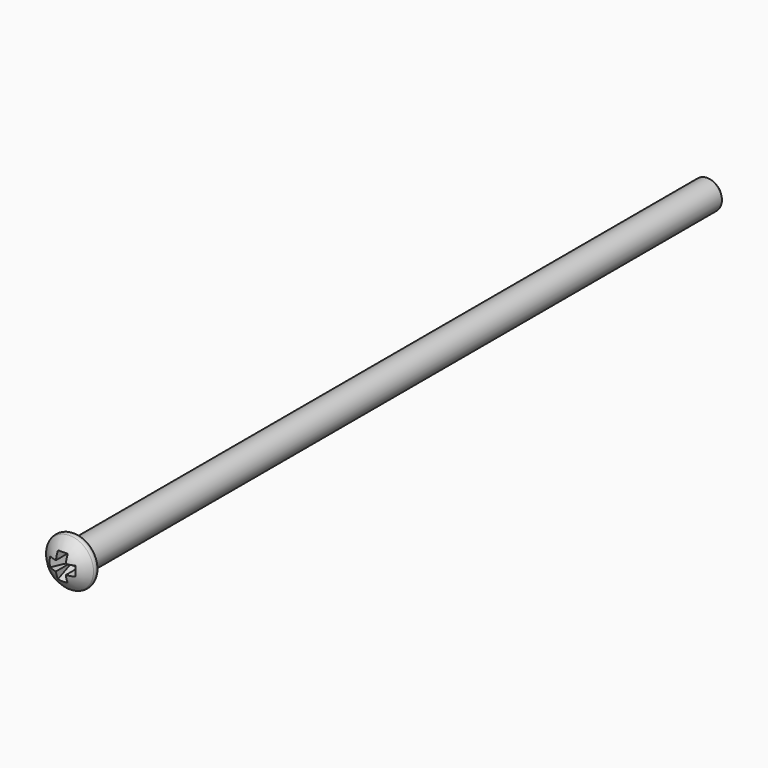
from build123d import *

# Parameters (mm, degrees)
PAD009_DEPTH            = 0.5
BODY005_PLACEMENT_ANGLE = 90
PAD008_DEPTH            = 0.5


with BuildPart() as body005:
    # Sketch021 → Pad009 (new body, symmetric)
    with BuildSketch(Plane.XY):
        Polygon((-2.15, -3.5), (2.15, -3.5), (0.625, 0), (-0.625, 0), align=None)
    extrude(amount=PAD009_DEPTH, both=True)


with BuildPart() as body005_1:
    # Body005 placement: moved
    add(body005.part.rotate(Axis((0, 0, 0), (0, -1, 0)), BODY005_PLACEMENT_ANGLE))


with BuildPart() as fusion:
    # Sketch020 → Pad008 (new body, symmetric)
    with BuildSketch(Plane.XY):
        Polygon((-2.15, -3.5), (2.15, -3.5), (0.625, 0), (-0.625, 0), align=None)
    extrude(amount=PAD008_DEPTH, both=True)

    # Fusion: union Body005
    add(body005_1.part)


with BuildPart() as body008:
    # Sketch019 → Revolution (revolve)
    with BuildSketch(Plane.XY):
        with BuildLine():
            Line((1.5, 0), (1.5, 80.5))
            Line((1.5, 80.5), (1, 81))
            Line((1, 81), (0, 81))
            Line((0, 81), (0, -1.9))
            ThreePointArc((0, -1.9), (1.354762, -1.576681), (2.417511, -0.676413))
            ThreePointArc((2.417511, -0.676413), (2.454213, -0.232991), (2.075154, 0))
            Line((1.5, 0), (2.075154, 0))
        make_face()
    revolve(axis=Axis((0, 0, 0), (0, 1, 0)))

    # Cut: cut Fusion
    add(fusion.part, mode=Mode.SUBTRACT)


with BuildPart() as body008_1:
    # Cut placement: moved
    add(body008.part.moved(Location((-15.9, 3, 25.5))))


with BuildPart() as body008_2:
    # Clone002 placement: moved
    add(body008_1.part.moved(Location((15.9, 0, -25.5))))


with BuildPart() as body008_3:
    # Body008 placement: moved
    add(body008_2.part.moved(Location((15.9, 0, -25.5))))


solid = body008_3.part
